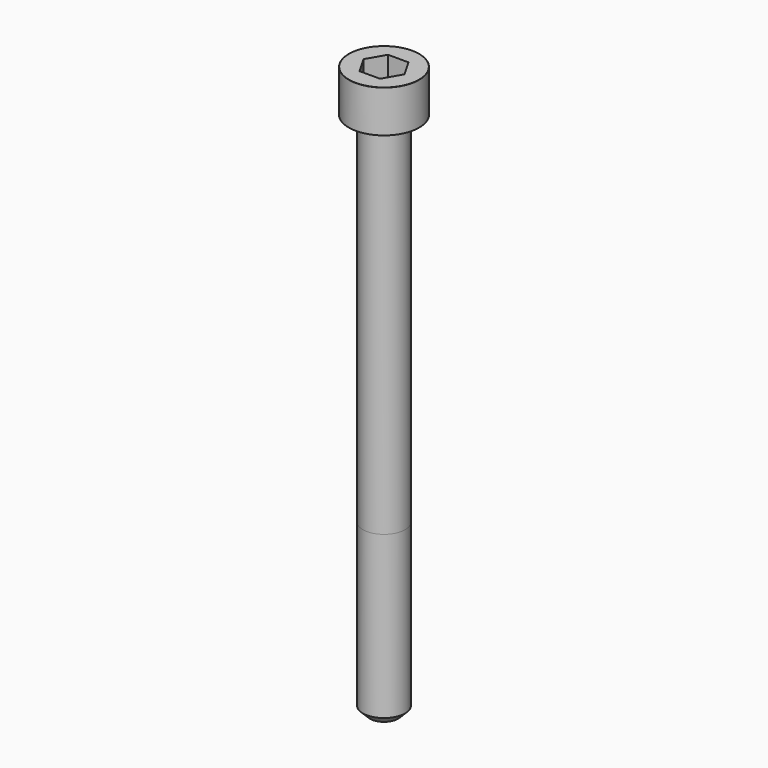
from build123d import *

# Parameters (mm, degrees)
POCKET_DEPTH = 5.06


with BuildPart() as part:
    # Sketch → Revolve (revolve)
    with BuildSketch(Plane.YZ):
        with BuildLine():
            Line((2.999, 0), (5, 0))
            Line((5, 0), (5, 5.97229))
            ThreePointArc((5, 5.97229), (4.991884, 5.991884), (4.97229, 6))
            Line((4.97229, 6), (0, 6))
            Line((0, -75), (0, 6))
            Line((2, -75), (0, -75))
            Line((3, -74), (2, -75))
            Line((3, -51), (3, -74))
            Line((2.999, 0), (3, -51))
        make_face()
    revolve(axis=Axis((0, 0, 0), (0, 0, 1)))

    # Sketch001 → Pocket (cut)
    with BuildSketch(Plane.XY.offset(6)):
        Polygon((2.921392, 0), (1.460696, 2.53), (-1.460696, 2.53), (-2.921392, 0), (-1.460696, -2.53), (1.460696, -2.53), align=None)
    extrude(amount=-POCKET_DEPTH, mode=Mode.SUBTRACT)


solid = part.part
